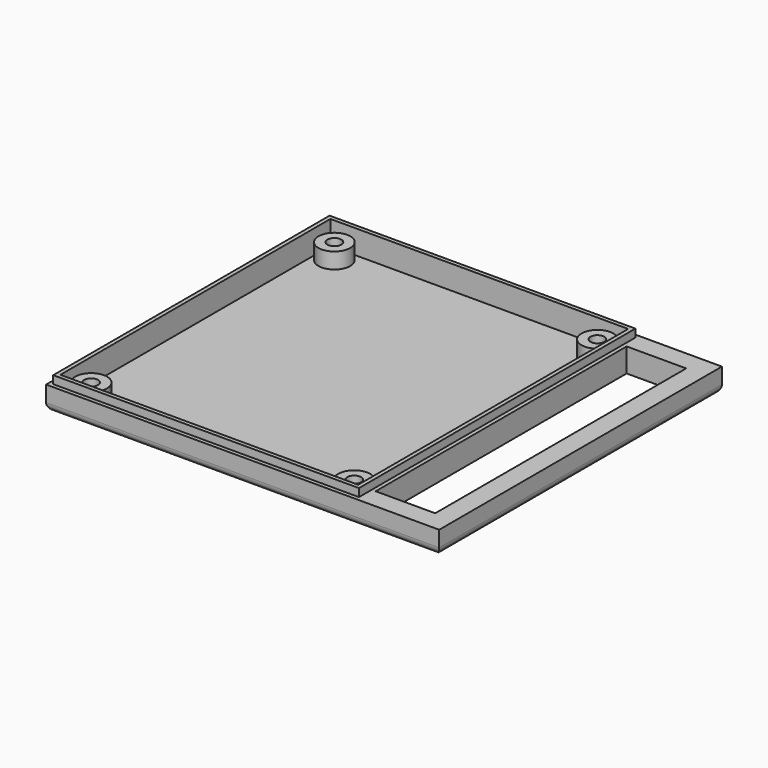
from build123d import *

# Parameters (mm, degrees)
BOX003_W          = 77
BOX003_H          = 87
BOX003_DEPTH      = 10
BOX002_W          = 79
BOX002_H          = 89
BOX002_DEPTH      = 10
CYLINDER005_R     = 1.75
CYLINDER005_DEPTH = 10
CYLINDER006_R     = 1.75
CYLINDER006_DEPTH = 10
CYLINDER007_R     = 1.75
CYLINDER007_DEPTH = 10
CYLINDER008_R     = 1.75
CYLINDER008_DEPTH = 10
PRISM_DEPTH       = 4
PRISM001_DEPTH    = 4
PRISM002_DEPTH    = 4
PRISM003_DEPTH    = 4
CYLINDER_R        = 1.75
CYLINDER_DEPTH    = 10
CYLINDER001_R     = 1.75
CYLINDER001_DEPTH = 10
CYLINDER002_R     = 1.75
CYLINDER002_DEPTH = 10
CYLINDER003_R     = 1.75
CYLINDER003_DEPTH = 10
BOX_W             = 75
BOX_H             = 85
BOX_DEPTH         = 10
BOX001_W          = 79
BOX001_H          = 89
BOX001_DEPTH      = 8
CYLINDER011_R     = 4
CYLINDER011_DEPTH = 4
CYLINDER010_R     = 4
CYLINDER010_DEPTH = 4
CYLINDER009_R     = 4
CYLINDER009_DEPTH = 4
CYLINDER004_R     = 4
CYLINDER004_DEPTH = 4
FILLET001_R       = 2
BOX005_W          = 15
BOX005_H          = 5
BOX005_DEPTH      = 6
BOX006_W          = 5
BOX006_H          = 89
BOX006_DEPTH      = 6
BOX004_W          = 15
BOX004_H          = 5
BOX004_DEPTH      = 6
FILLET_R          = 2


with BuildPart() as cube003:
    # Box003 → Box003 (new body)
    with BuildSketch(Plane(origin=(-1, -1, 10), x_dir=(1, 0, 0), z_dir=(0, 0, 1))):
        with Locations((38.5, 43.5)):
            Rectangle(BOX003_W, BOX003_H)
    extrude(amount=BOX003_DEPTH)


with BuildPart() as cut013:
    # Box002 → Box002 (new body)
    with BuildSketch(Plane(origin=(-2, -2, 10), x_dir=(1, 0, 0), z_dir=(0, 0, 1))):
        with Locations((39.5, 44.5)):
            Rectangle(BOX002_W, BOX002_H)
    extrude(amount=BOX002_DEPTH)

    # Cut013: cut Cube003
    add(cube003.part, mode=Mode.SUBTRACT)


with BuildPart() as cut013_1:
    # Cut013 placement: moved
    add(cut013.part.moved(Location((0, 0, -4))))


with BuildPart() as cylinder005:
    # Cylinder005 → Cylinder005 (new body)
    with BuildSketch(Plane(origin=(4.38, 4.22, -1), x_dir=(1, 0, 0), z_dir=(0, 0, 1))):
        Circle(CYLINDER005_R)
    extrude(amount=CYLINDER005_DEPTH)


with BuildPart() as cylinder006:
    # Cylinder006 → Cylinder006 (new body)
    with BuildSketch(Plane(origin=(70.62, 4.22, -1), x_dir=(1, 0, 0), z_dir=(0, 0, 1))):
        Circle(CYLINDER006_R)
    extrude(amount=CYLINDER006_DEPTH)


with BuildPart() as cylinder007:
    # Cylinder007 → Cylinder007 (new body)
    with BuildSketch(Plane(origin=(70.62, 80.78, -1), x_dir=(1, 0, 0), z_dir=(0, 0, 1))):
        Circle(CYLINDER007_R)
    extrude(amount=CYLINDER007_DEPTH)


with BuildPart() as cylinder008:
    # Cylinder008 → Cylinder008 (new body)
    with BuildSketch(Plane(origin=(4.38, 80.78, -1), x_dir=(1, 0, 0), z_dir=(0, 0, 1))):
        Circle(CYLINDER008_R)
    extrude(amount=CYLINDER008_DEPTH)


with BuildPart() as prism:
    # Prism → Prism (new body)
    with BuildSketch(Plane(origin=(4.38, 4.22, 0), x_dir=(1, 0, 0), z_dir=(0, 0, 1))):
        Polygon((3.5, 0), (1.75, 3.031089), (-1.75, 3.031089), (-3.5, 0), (-1.75, -3.031089), (1.75, -3.031089), align=None)
    extrude(amount=PRISM_DEPTH)


with BuildPart() as prism001:
    # Prism001 → Prism001 (new body)
    with BuildSketch(Plane(origin=(70.62, 4.22, 0), x_dir=(1, 0, 0), z_dir=(0, 0, 1))):
        Polygon((3.5, 0), (1.75, 3.031089), (-1.75, 3.031089), (-3.5, 0), (-1.75, -3.031089), (1.75, -3.031089), align=None)
    extrude(amount=PRISM001_DEPTH)


with BuildPart() as prism002:
    # Prism002 → Prism002 (new body)
    with BuildSketch(Plane(origin=(70.62, 80.78, 0), x_dir=(1, 0, 0), z_dir=(0, 0, 1))):
        Polygon((3.5, 0), (1.75, 3.031089), (-1.75, 3.031089), (-3.5, 0), (-1.75, -3.031089), (1.75, -3.031089), align=None)
    extrude(amount=PRISM002_DEPTH)


with BuildPart() as prism003:
    # Prism003 → Prism003 (new body)
    with BuildSketch(Plane(origin=(4.38, 80.78, 0), x_dir=(1, 0, 0), z_dir=(0, 0, 1))):
        Polygon((3.5, 0), (1.75, 3.031089), (-1.75, 3.031089), (-3.5, 0), (-1.75, -3.031089), (1.75, -3.031089), align=None)
    extrude(amount=PRISM003_DEPTH)


with BuildPart() as cylinder:
    # Cylinder → Cylinder (new body)
    with BuildSketch(Plane(origin=(4.38, 80.78, 0), x_dir=(1, 0, 0), z_dir=(0, 0, 1))):
        Circle(CYLINDER_R)
    extrude(amount=CYLINDER_DEPTH)


with BuildPart() as cylinder001:
    # Cylinder001 → Cylinder001 (new body)
    with BuildSketch(Plane(origin=(70.62, 80.78, 0), x_dir=(1, 0, 0), z_dir=(0, 0, 1))):
        Circle(CYLINDER001_R)
    extrude(amount=CYLINDER001_DEPTH)


with BuildPart() as cylinder002:
    # Cylinder002 → Cylinder002 (new body)
    with BuildSketch(Plane(origin=(70.62, 4.22, 0), x_dir=(1, 0, 0), z_dir=(0, 0, 1))):
        Circle(CYLINDER002_R)
    extrude(amount=CYLINDER002_DEPTH)


with BuildPart() as cylinder003:
    # Cylinder003 → Cylinder003 (new body)
    with BuildSketch(Plane(origin=(4.38, 4.22, 0), x_dir=(1, 0, 0), z_dir=(0, 0, 1))):
        Circle(CYLINDER003_R)
    extrude(amount=CYLINDER003_DEPTH)


with BuildPart() as cube:
    # Box → Box (new body)
    with BuildSketch(Plane.XY.offset(2)):
        with Locations((37.5, 42.5)):
            Rectangle(BOX_W, BOX_H)
    extrude(amount=BOX_DEPTH)


with BuildPart() as cut004:
    # Box001 → Box001 (new body)
    with BuildSketch(Plane(origin=(-2, -2, 0), x_dir=(1, 0, 0), z_dir=(0, 0, 1))):
        with Locations((39.5, 44.5)):
            Rectangle(BOX001_W, BOX001_H)
    extrude(amount=BOX001_DEPTH)

    # Cut: cut Cube
    add(cube.part, mode=Mode.SUBTRACT)

    # Cut001: cut Cylinder003
    add(cylinder003.part, mode=Mode.SUBTRACT)

    # Cut002: cut Cylinder002
    add(cylinder002.part, mode=Mode.SUBTRACT)

    # Cut003: cut Cylinder001
    add(cylinder001.part, mode=Mode.SUBTRACT)

    # Cut004: cut Cylinder
    add(cylinder.part, mode=Mode.SUBTRACT)


with BuildPart() as fusion:
    # Cylinder011 → Cylinder011 (new body)
    with BuildSketch(Plane(origin=(4.38, 80.78, 2), x_dir=(1, 0, 0), z_dir=(0, 0, 1))):
        Circle(CYLINDER011_R)
    extrude(amount=CYLINDER011_DEPTH)

    # Fusion: union Cut004
    add(cut004.part)


with BuildPart() as fusion001:
    # Cylinder010 → Cylinder010 (new body)
    with BuildSketch(Plane(origin=(70.62, 80.78, 2), x_dir=(1, 0, 0), z_dir=(0, 0, 1))):
        Circle(CYLINDER010_R)
    extrude(amount=CYLINDER010_DEPTH)

    # Fusion001: union Fusion
    add(fusion.part)


with BuildPart() as fusion002:
    # Cylinder009 → Cylinder009 (new body)
    with BuildSketch(Plane(origin=(70.62, 4.22, 2), x_dir=(1, 0, 0), z_dir=(0, 0, 1))):
        Circle(CYLINDER009_R)
    extrude(amount=CYLINDER009_DEPTH)

    # Fusion002: union Fusion001
    add(fusion001.part)


with BuildPart() as fillet001:
    # Cylinder004 → Cylinder004 (new body)
    with BuildSketch(Plane(origin=(4.38, 4.22, 2), x_dir=(1, 0, 0), z_dir=(0, 0, 1))):
        Circle(CYLINDER004_R)
    extrude(amount=CYLINDER004_DEPTH)

    # Fusion003: union Fusion002
    add(fusion002.part)

    # Cut005: cut Prism003
    add(prism003.part, mode=Mode.SUBTRACT)

    # Cut006: cut Prism002
    add(prism002.part, mode=Mode.SUBTRACT)

    # Cut007: cut Prism001
    add(prism001.part, mode=Mode.SUBTRACT)

    # Cut008: cut Prism
    add(prism.part, mode=Mode.SUBTRACT)

    # Cut009: cut Cylinder008
    add(cylinder008.part, mode=Mode.SUBTRACT)

    # Cut010: cut Cylinder007
    add(cylinder007.part, mode=Mode.SUBTRACT)

    # Cut011: cut Cylinder006
    add(cylinder006.part, mode=Mode.SUBTRACT)

    # Cut012: cut Cylinder005
    add(cylinder005.part, mode=Mode.SUBTRACT)

    # Cut014: cut Cut013
    add(cut013_1.part, mode=Mode.SUBTRACT)

    # Fillet001
    fillet001_edges = [fillet001.edges().sort_by_distance(p)[0] for p in [
        (-2, 42.5, 0),
        (37.5, 87, 0),
        (37.5, -2, 0),
    ]]
    fillet(fillet001_edges, radius=FILLET001_R)


with BuildPart() as cube005:
    # Box005 → Box005 (new body)
    with BuildSketch(Plane(origin=(77, 82, 0), x_dir=(1, 0, 0), z_dir=(0, 0, 1))):
        with Locations((7.5, 2.5)):
            Rectangle(BOX005_W, BOX005_H)
    extrude(amount=BOX005_DEPTH)


with BuildPart() as cube006:
    # Box006 → Box006 (new body)
    with BuildSketch(Plane(origin=(92, -2, 0), x_dir=(1, 0, 0), z_dir=(0, 0, 1))):
        with Locations((2.5, 44.5)):
            Rectangle(BOX006_W, BOX006_H)
    extrude(amount=BOX006_DEPTH)


with BuildPart() as fusion005:
    # Box004 → Box004 (new body)
    with BuildSketch(Plane(origin=(77, -2, 0), x_dir=(1, 0, 0), z_dir=(0, 0, 1))):
        with Locations((7.5, 2.5)):
            Rectangle(BOX004_W, BOX004_H)
    extrude(amount=BOX004_DEPTH)

    # Fusion004: union Cube005, Cube006
    add(cube005.part)
    add(cube006.part)

    # Fillet
    fillet_edges = [fusion005.edges().sort_by_distance(p)[0] for p in [
        (84.5, -2, 0),
        (97, 42.5, 0),
        (84.5, 87, 0),
    ]]
    fillet(fillet_edges, radius=FILLET_R)

    # Fusion005: union Fillet001
    add(fillet001.part)


solid = fusion005.part
